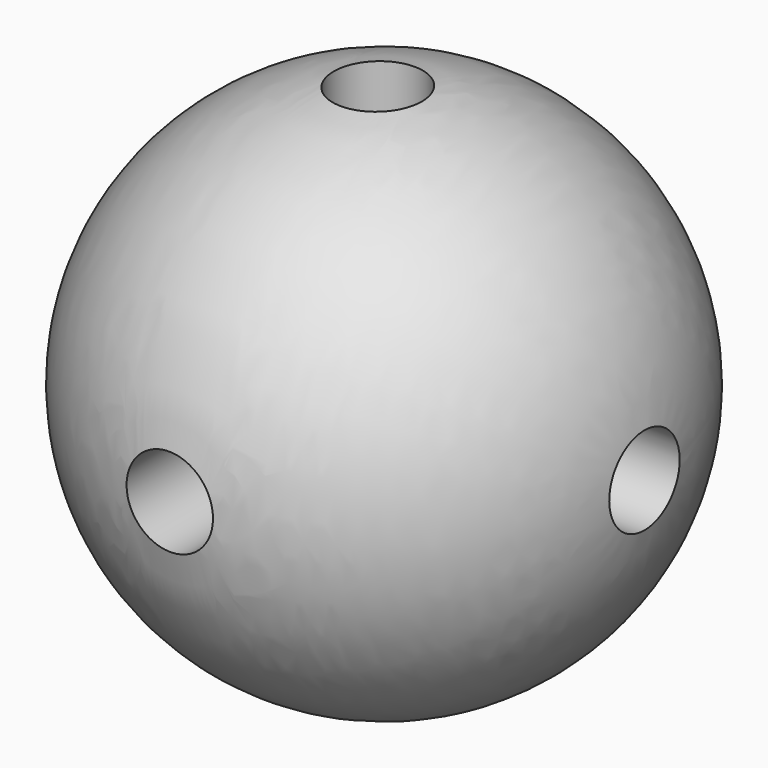
from build123d import *

# Parameters (mm, degrees)
F2_R     = 12.7
F3_DEPTH = 88.9
F4_R     = 12.7
F5_DEPTH = 88.9
F6_R     = 12.7
F7_DEPTH = 88.9


with BuildPart() as f1:
    # F0 (on Top) → F1 (revolve)
    with BuildSketch(Plane.XY):
        with BuildLine():
            Line((-74.395262, 0), (78.004738, 0))
            ThreePointArc((78.004738, 0), (1.804738, 76.058195), (-74.395262, 0))
        make_face()
    revolve(axis=Axis((1.804738, 0, 0), (1, 0, 0)))

    # F2 (on Top) → F3 (cut, symmetric)
    with BuildSketch(Plane.XY):
        Circle(F2_R)
    extrude(amount=F3_DEPTH, both=True, mode=Mode.SUBTRACT)

    # F4 (on Right) → F5 (cut, symmetric)
    with BuildSketch(Plane.YZ):
        Circle(F4_R)
    extrude(amount=F5_DEPTH, both=True, mode=Mode.SUBTRACT)

    # F6 (on Front) → F7 (cut, symmetric)
    with BuildSketch(Plane.XZ):
        Circle(F6_R)
    extrude(amount=F7_DEPTH, both=True, mode=Mode.SUBTRACT)


solid = f1.part
